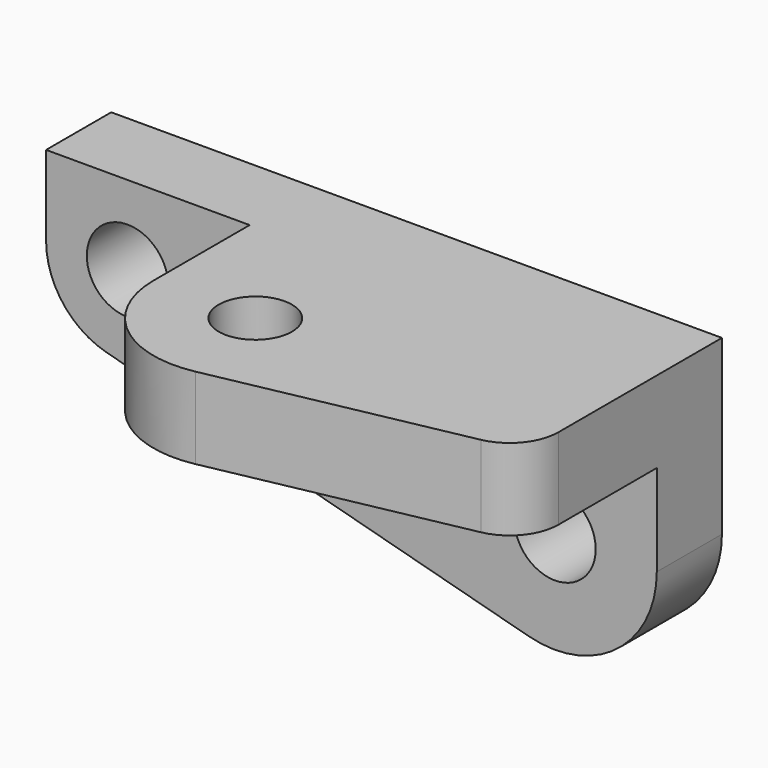
from build123d import *

# Parameters (mm, degrees)
F0_R     = 10
F1_DEPTH = 20
F2_R     = 9
F3_DEPTH = 20
F4_R     = 12


with BuildPart() as f1:
    # F0 (on Front) → F1 (new body)
    with BuildSketch(Plane.XZ):
        with BuildLine():
            Line((-76.378161, 20.135936), (-76.378161, 0.501502))
            ThreePointArc((-76.378161, 0.501502), (-72.237939, -11.683221), (-61.531414, -18.823197))
            Line((-61.531414, -18.823197), (42.180272, -46.479646))
            ThreePointArc((42.180272, -46.479646), (63.852742, -42.148494), (73.621839, -22.323773))
            Line((73.621839, -22.323773), (73.621839, 20.135936))
            Line((73.621839, 20.135936), (-76.378161, 20.135936))
        make_face()
        with Locations((48.621839, -22.323773)):
            Circle(F0_R, mode=Mode.SUBTRACT)
        with Locations((-56.378161, 0.501502)):
            Circle(F0_R, mode=Mode.SUBTRACT)
    extrude(amount=F1_DEPTH)

    # F2 (on face) → F3 (join)
    with BuildSketch(Plane.XY.offset(20.135936)):
        with BuildLine():
            Line((73.621839, -60), (73.621839, -20))
            Line((73.621839, -20), (-26.378161, -20))
            Line((-26.378161, -20), (-26.378161, -49.504902))
            ThreePointArc((-26.378161, -49.504902), (-17.227884, -68.838456), (3.524742, -74.019419))
            Line((3.524742, -74.019419), (73.621839, -60))
        make_face()
        with Locations((-1.378161, -49.504902)):
            Circle(F2_R, mode=Mode.SUBTRACT)
    extrude(amount=-F3_DEPTH)

    # F4
    f4_edges = [f1.edges().sort_by_distance(p)[0] for p in [
        (73.621839, -60, 10.135936),
    ]]
    fillet(f4_edges, radius=F4_R)


solid = f1.part
